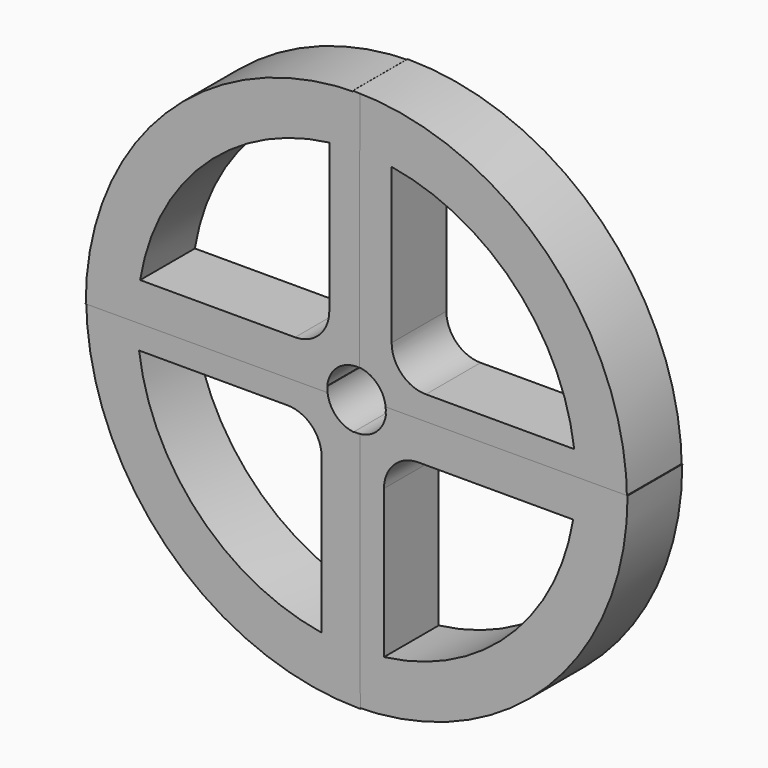
from build123d import *

# Parameters (mm, degrees)
F2_DEPTH = 12.7
F3_DEPTH = 25.4
F5_DEPTH = 25.4
F6_COUNT = 4


with BuildPart() as f2:
    # F0 (on Front) → F2 (new body)
    with BuildSketch(Plane.XZ):
        with BuildLine():
            Line((-0.508019, -0.508041), (50.291985, -0.606483))
            ThreePointArc((50.291985, -0.606483), (35.412302, 35.413827), (-0.608648, 50.291959))
            Line((-0.608648, 50.291959), (-0.508019, -0.508041))
        make_face()
    extrude(amount=F2_DEPTH)

    # F1 (on Front) → F3 (cut)
    with BuildSketch(Plane.XZ):
        with BuildLine():
            Line((12.918004, 5.066977), (40.464098, 5.066977))
            ThreePointArc((40.464098, 5.066977), (29.360698, 28.266238), (6.568004, 40.181952))
            Line((6.568004, 40.181952), (6.568004, 11.416977))
            ThreePointArc((6.568004, 11.416977), (8.427876, 6.926849), (12.918004, 5.066977))
        make_face()
    extrude(amount=F3_DEPTH, mode=Mode.SUBTRACT)

    # F4 (on Front) → F5 (cut)
    with BuildSketch(Plane.XZ):
        with BuildLine():
            Line((-0.621449, -0.529513), (5.457035, -0.529981))
            ThreePointArc((5.457035, -0.529981), (3.844206, 3.909243), (-0.621449, 5.447376))
            Line((-0.621449, 5.447376), (-0.621449, -0.529513))
        make_face()
    extrude(amount=F5_DEPTH, mode=Mode.SUBTRACT)


with BuildPart() as f6_1:
    # F6: instance of F2
    add(f2.part.rotate(Axis((0.066777, 0, -0.010858), (0, 1, 0)), 1 * 360 / F6_COUNT))


with BuildPart() as f6_2:
    # F6: instance of F2
    add(f2.part.rotate(Axis((0.066777, 0, -0.010858), (0, 1, 0)), 2 * 360 / F6_COUNT))


with BuildPart() as f6_3:
    # F6: instance of F2
    add(f2.part.rotate(Axis((0.066777, 0, -0.010858), (0, 1, 0)), 3 * 360 / F6_COUNT))


solid = Compound([f2.part, f6_1.part, f6_2.part, f6_3.part])
